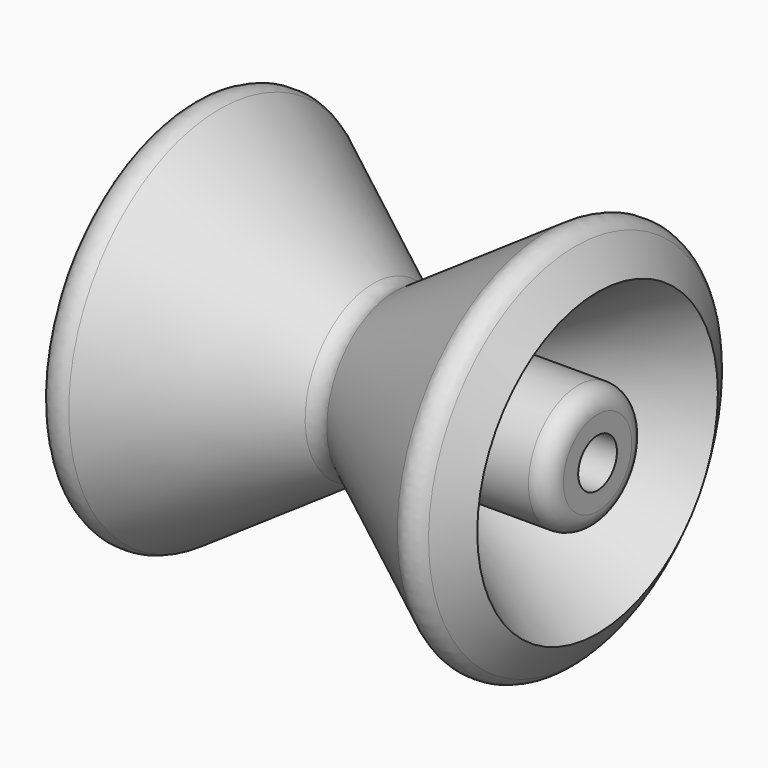
from build123d import *

# Parameters (mm, degrees)
F2_R     = 5.08
F3_R     = 5.08
F4_R     = 5.08
F5_R     = 5.08
F6_R     = 6.35
F7_DEPTH = 111.945489


with BuildPart() as f1:
    # F0 (on Front) → F1 (revolve)
    with BuildSketch(Plane.XZ):
        Polygon((-55.972245, 0), (0, 0), (55.972245, 0), (55.972245, 16.277639), (21.703525, 16.277639), (55.972245, 39.409027), (47.281835, 52.283707), (0, 20.368467), (-47.281835, 52.283707), (-55.972245, 39.409027), (-21.703525, 16.277639), (-55.972245, 16.277639), align=None)
    revolve(axis=Axis((27.986122, 0, 0), (1, 0, 0)))

    # F2
    f2_edges = [f1.edges().sort_by_distance(p)[0] for p in [
        (-55.972245, 0, -16.277639),
    ]]
    fillet(f2_edges, radius=F2_R)

    # F3
    f3_edges = [f1.edges().sort_by_distance(p)[0] for p in [
        (55.972245, 0, -16.277639),
    ]]
    fillet(f3_edges, radius=F3_R)

    # F4
    f4_edges = [f1.edges().sort_by_distance(p)[0] for p in [
        (-47.281835, 0, -52.283707),
        (47.281835, 0, -52.283707),
    ]]
    fillet(f4_edges, radius=F4_R)

    # F5
    f5_edges = [f1.edges().sort_by_distance(p)[0] for p in [
        (0, 0, -20.368467),
    ]]
    fillet(f5_edges, radius=F5_R)

    # F6 (on face) → F7 (cut, through all)
    with BuildSketch(Plane.YZ.offset(55.972245)):
        Circle(F6_R)
    extrude(amount=-F7_DEPTH, mode=Mode.SUBTRACT)


solid = f1.part
